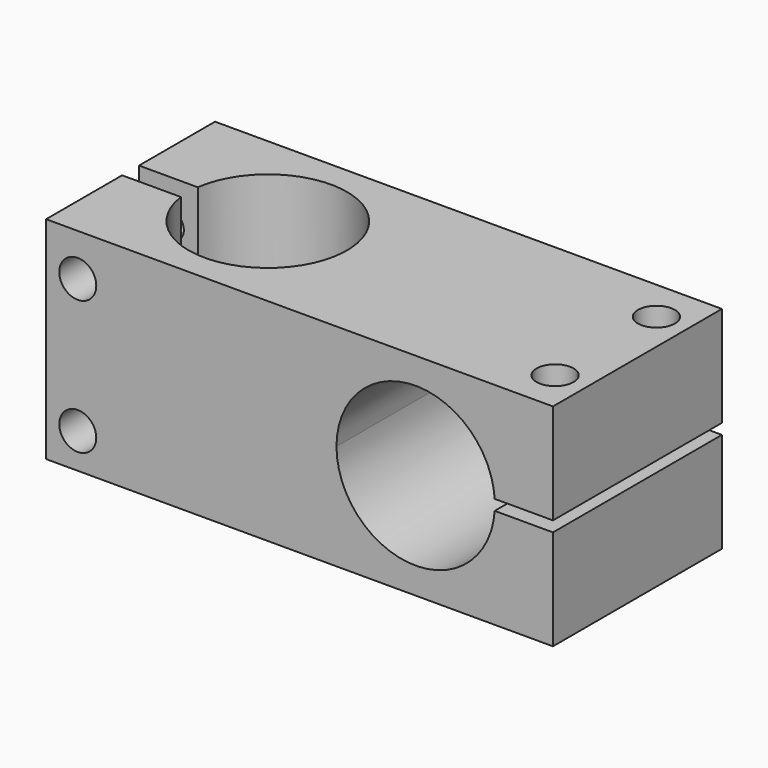
from build123d import *

# Parameters (mm, degrees)
F0_W                  = 152.4
F0_H                  = 63.5
F1_DEPTH              = 31.75
F3_D                  = 47.625
F5_D                  = 47.625
F10_W                 = 63.5
F10_H                 = 3.175
F11_DEPTH             = 19.05
F12_D                 = 7.9248
F12_CBORE_D           = 11.1252
F12_CBORE_DEPTH       = 31.75
F12_ON_F7_D           = 7.9248
F12_ON_F7_CBORE_D     = 11.1252
F12_ON_F7_CBORE_DEPTH = 31.75
F12_ON_F8_D           = 7.9248
F12_ON_F8_CBORE_D     = 11.1252
F12_ON_F8_CBORE_DEPTH = 31.75
F12_ON_F9_D           = 7.9248
F12_ON_F9_CBORE_D     = 11.1252
F12_ON_F9_CBORE_DEPTH = 31.75
F13_W                 = 6.35
F13_H                 = 63.5
F14_DEPTH             = 50.8


with BuildPart() as f1:
    # F0 (on Front) → F1 (new body, symmetric)
    with BuildSketch(Plane.XZ):
        Rectangle(F0_W, F0_H)
    extrude(amount=F1_DEPTH, both=True)

    # F3 (through all)
    with Locations(Plane.XY.offset(31.75)):
        with Locations((-34.925, 0)):
            Hole(F3_D / 2)

    # F5 (through all)
    with Locations(Plane.XZ.offset(31.75)):
        with Locations((34.925, 0)):
            Hole(F5_D / 2)

    # F10 (on face) → F11 (cut, symmetric)
    with BuildSketch(Plane.YZ.offset(76.2)):
        Rectangle(F10_W, F10_H)
    extrude(amount=F11_DEPTH, both=True, mode=Mode.SUBTRACT)

    # F12 (through all)
    with Locations(Plane.XY.offset(31.75)):
        with Locations((66.675, 19.05)):
            CounterBoreHole(F12_D / 2, F12_CBORE_D / 2, F12_CBORE_DEPTH)

    # F12 on F7 (through all)
    with Locations(Plane.XY.offset(31.75)):
        with Locations((66.675, -19.05)):
            CounterBoreHole(F12_ON_F7_D / 2, F12_ON_F7_CBORE_D / 2, F12_ON_F7_CBORE_DEPTH)

    # F12 on F8 (through all)
    with Locations(Plane.XZ.offset(31.75)):
        with Locations((-66.675, 19.05)):
            CounterBoreHole(F12_ON_F8_D / 2, F12_ON_F8_CBORE_D / 2, F12_ON_F8_CBORE_DEPTH)

    # F12 on F9 (through all)
    with Locations(Plane.XZ.offset(31.75)):
        with Locations((-66.675, -21.2032347918)):
            CounterBoreHole(F12_ON_F9_D / 2, F12_ON_F9_CBORE_D / 2, F12_ON_F9_CBORE_DEPTH)

    # F13 (on face) → F14 (cut)
    with BuildSketch(Plane(origin=(-76.2, 0, 0), x_dir=(0, -1, 0), z_dir=(-1, 0, 0))):
        Rectangle(F13_W, F13_H)
    extrude(amount=-F14_DEPTH, mode=Mode.SUBTRACT)


solid = f1.part
